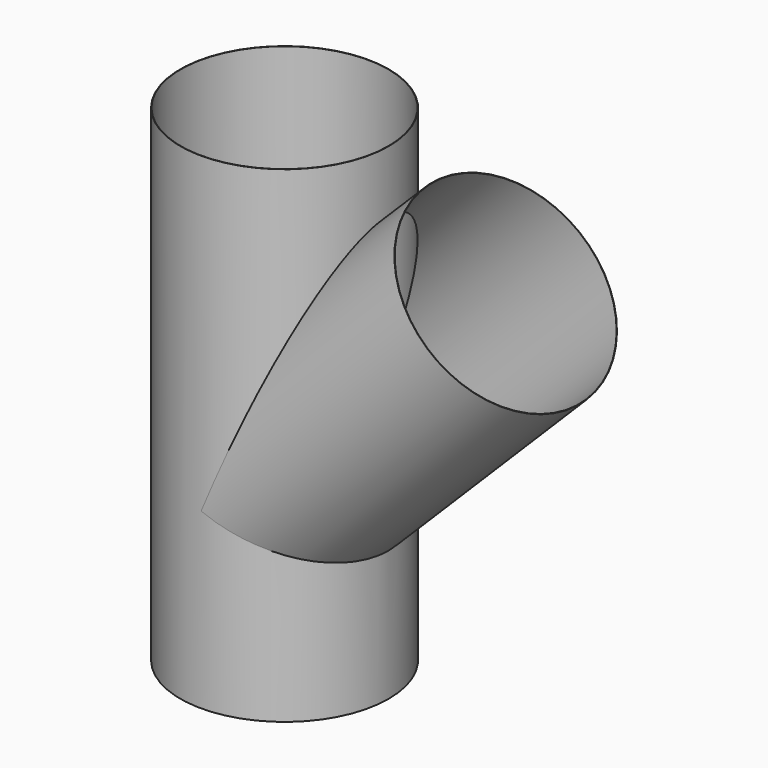
from build123d import *

# Parameters (mm, degrees)
F2_R     = 152.4
F2_R_2   = 151.9174
F5_R     = 152.4
F5_R_2   = 151.9174
F7_DEPTH = 711.2010001
F8_DEPTH = 457.2


with BuildPart() as f3:
    # F3: sweep along a path in F0
    with BuildLine(Plane.XZ) as f3_path:
        Line((0, 0), (0, 711.2))
    # F2 (on line) → F3 (sweep)
    with BuildSketch(Plane.XY):
        Circle(F2_R)
        Circle(F2_R_2, mode=Mode.SUBTRACT)
    sweep(path=f3_path.line)

    # F6: sweep along a path in F0
    with BuildLine(Plane.XZ) as f6_path:
        Line((0, 254), (323.2892203585, 577.2892203585))
    # F5 (on line) → F6 (sweep)
    with BuildSketch(Plane(origin=(450.2892203585, 0, 450.2892203585), x_dir=(0, 1, 0), z_dir=(0.7071067812, 0, 0.7071067812))):
        with Locations((0, 179.6051224214)):
            Circle(F5_R)
        with Locations((0, 179.6051224214)):
            Circle(F5_R_2, mode=Mode.SUBTRACT)
    sweep(path=f6_path.line)

    # F2 (on line) → F7 (cut, through all)
    with BuildSketch(Plane.XY):
        Circle(F2_R_2)
    extrude(amount=F7_DEPTH, mode=Mode.SUBTRACT)

    # F5 (on line) → F8 (cut)
    with BuildSketch(Plane(origin=(450.2892203585, 0, 450.2892203585), x_dir=(0, 1, 0), z_dir=(0.7071067812, 0, 0.7071067812))):
        with Locations((0, 179.6051224214)):
            Circle(F5_R_2)
    extrude(amount=-F8_DEPTH, mode=Mode.SUBTRACT)


solid = f3.part
